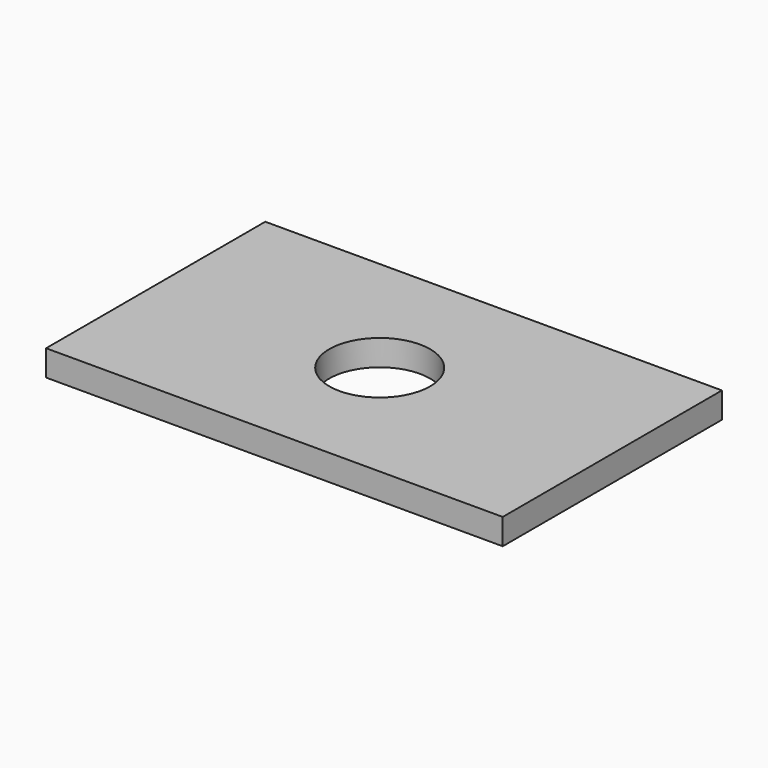
from build123d import *

# Parameters (mm, degrees)
SKETCH_W     = 53
SKETCH_H     = 31.8
PAD_DEPTH    = 3
SKETCH001_R  = 5.85
POCKET_DEPTH = 3.001


with BuildPart() as part:
    # Sketch → Pad (new body)
    with BuildSketch(Plane.XY):
        with Locations((36.5, 25.9)):
            Rectangle(SKETCH_W, SKETCH_H)
    extrude(amount=PAD_DEPTH)

    # Sketch001 → Pocket (cut, through all)
    with BuildSketch(Plane.XY):
        with Locations((36, 25.9)):
            Circle(SKETCH001_R)
    extrude(amount=POCKET_DEPTH, mode=Mode.SUBTRACT)


solid = part.part
